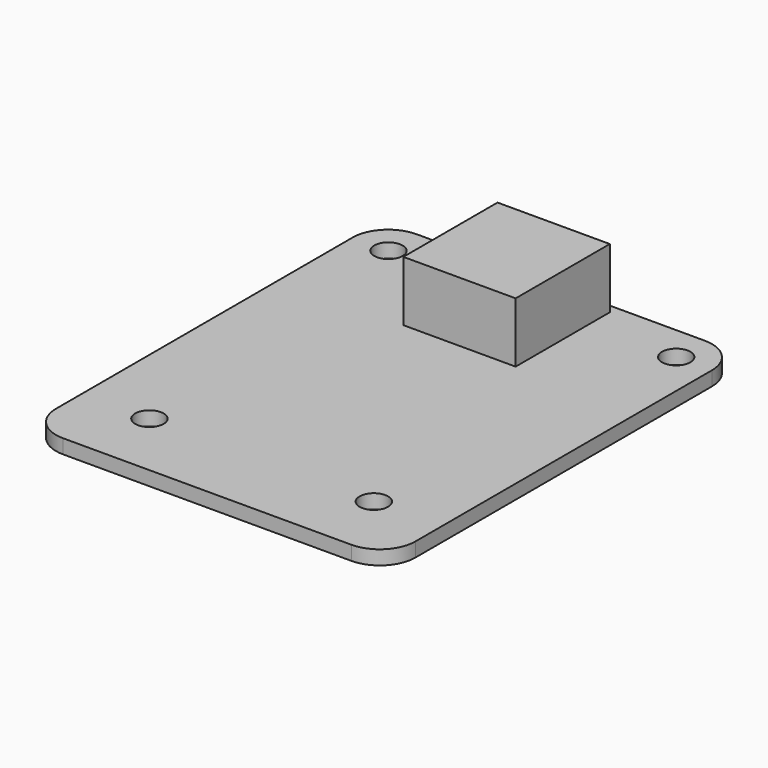
from build123d import *

# Parameters (mm, degrees)
F0_R     = 1.6
F1_DEPTH = 1.6
F2_W     = 12.64
F2_H     = 13.25
F3_DEPTH = 6.77


with BuildPart() as f1:
    # F0 (on Top) → F1 (new body)
    with BuildSketch(Plane.XY):
        with BuildLine():
            Line((-16.23, -24.875), (16.23, -24.875))
            ThreePointArc((16.23, -24.875), (19.058427, -23.703427), (20.23, -20.875))
            Line((20.23, -20.875), (20.23, 20.875))
            ThreePointArc((20.23, 20.875), (19.058427, 23.703427), (16.23, 24.875))
            Line((16.23, 24.875), (-16.23, 24.875))
            ThreePointArc((-16.23, 24.875), (-19.058427, 23.703427), (-20.23, 20.875))
            Line((-20.23, 20.875), (-20.23, -20.875))
            ThreePointArc((-20.23, -20.875), (-19.058427, -23.703427), (-16.23, -24.875))
        make_face()
        with Locations((-12.635, -17.225)):
            Circle(F0_R, mode=Mode.SUBTRACT)
        with Locations((12.635, -17.225)):
            Circle(F0_R, mode=Mode.SUBTRACT)
        with Locations((-16.2, 20.875)):
            Circle(F0_R, mode=Mode.SUBTRACT)
        with Locations((16.2, 20.875)):
            Circle(F0_R, mode=Mode.SUBTRACT)
    extrude(amount=F1_DEPTH)

    # F2 (on face) → F3 (join)
    with BuildSketch(Plane.XY.offset(1.6)):
        with Locations((0, 17.25)):
            Rectangle(F2_W, F2_H)
    extrude(amount=F3_DEPTH)


solid = f1.part
